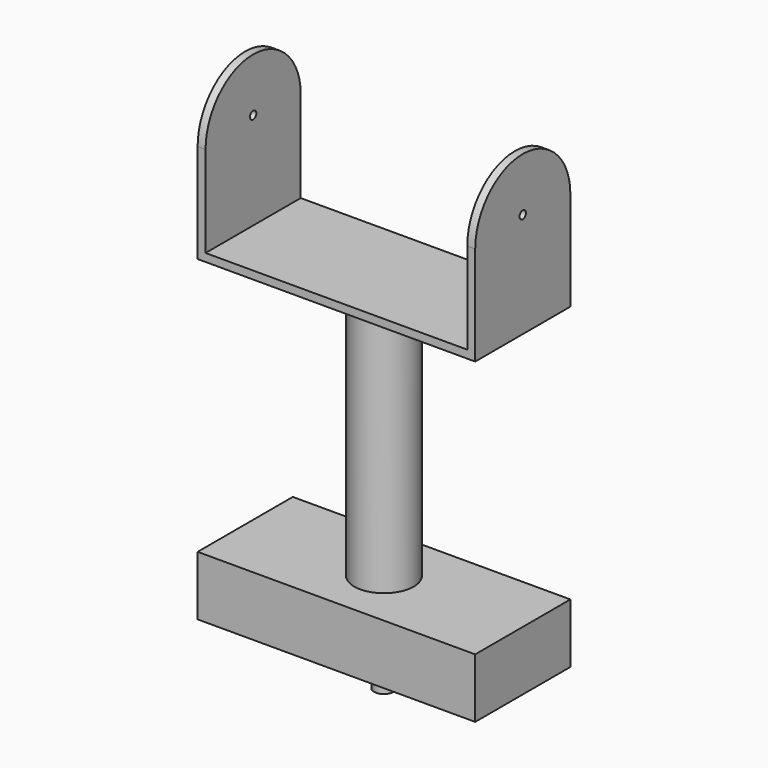
from build123d import *

# Parameters (mm, degrees)
F0_W      = 70
F0_H      = 30
F0_R      = 7.5
F0_R_2    = 2.5
F1_DEPTH  = 15
F2_DEPTH  = 10
F3_DEPTH  = 80
F4_W      = 66
F4_H      = 30
F4_R      = 7.5
F4_R_2    = 2.5
F4_W_2    = 2
F5_DEPTH  = 2
F6_DEPTH  = 25
F7_R      = 1
F8_DEPTH  = 2
F9_R      = 1
F10_DEPTH = 2


with BuildPart() as f1:
    # F0 (on Top) → F1 (new body)
    with BuildSketch(Plane.XY):
        Rectangle(F0_W, F0_H)
        Circle(F0_R, mode=Mode.SUBTRACT)
        Circle(F0_R)
        Circle(F0_R_2, mode=Mode.SUBTRACT)
        Circle(F0_R_2)
    extrude(amount=F1_DEPTH)

    # F0 (on Top) → F2 (join)
    with BuildSketch(Plane.XY):
        Circle(F0_R_2)
    extrude(amount=-F2_DEPTH)

    # F0 (on Top) → F3 (join)
    with BuildSketch(Plane.XY):
        Circle(F0_R)
        Circle(F0_R_2, mode=Mode.SUBTRACT)
    extrude(amount=F3_DEPTH)

    # F4 (on face) → F5 (join)
    with BuildSketch(Plane.XY.offset(80)):
        Rectangle(F4_W, F4_H)
        Circle(F4_R, mode=Mode.SUBTRACT)
        Circle(F4_R)
        Circle(F4_R_2, mode=Mode.SUBTRACT)
        Circle(F4_R_2)
        with Locations((-34, 0)):
            Rectangle(F4_W_2, F4_H)
        with Locations((34, 0)):
            Rectangle(F4_W_2, F4_H)
    extrude(amount=F5_DEPTH)

    # F4 (on face) → F6 (join)
    with BuildSketch(Plane.XY.offset(80)):
        with Locations((-34, 0)):
            Rectangle(F4_W_2, F4_H)
        with Locations((34, 0)):
            Rectangle(F4_W_2, F4_H)
    extrude(amount=F6_DEPTH)

    # F7 (on face) → F8 (join)
    with BuildSketch(Plane(origin=(-35, 0, 0), x_dir=(0, -1, 0), z_dir=(-1, 0, 0))):
        with BuildLine():
            Line((-15, 105), (15, 105))
            ThreePointArc((15, 105), (0, 120), (-15, 105))
        make_face()
        with Locations((0, 106.5)):
            Circle(F7_R, mode=Mode.SUBTRACT)
    extrude(amount=-F8_DEPTH)

    # F9 (on face) → F10 (join)
    with BuildSketch(Plane.YZ.offset(35)):
        with BuildLine():
            Line((-15, 105), (15, 105))
            ThreePointArc((15, 105), (0, 120), (-15, 105))
        make_face()
        with Locations((0, 106.5)):
            Circle(F9_R, mode=Mode.SUBTRACT)
    extrude(amount=-F10_DEPTH)


solid = f1.part
